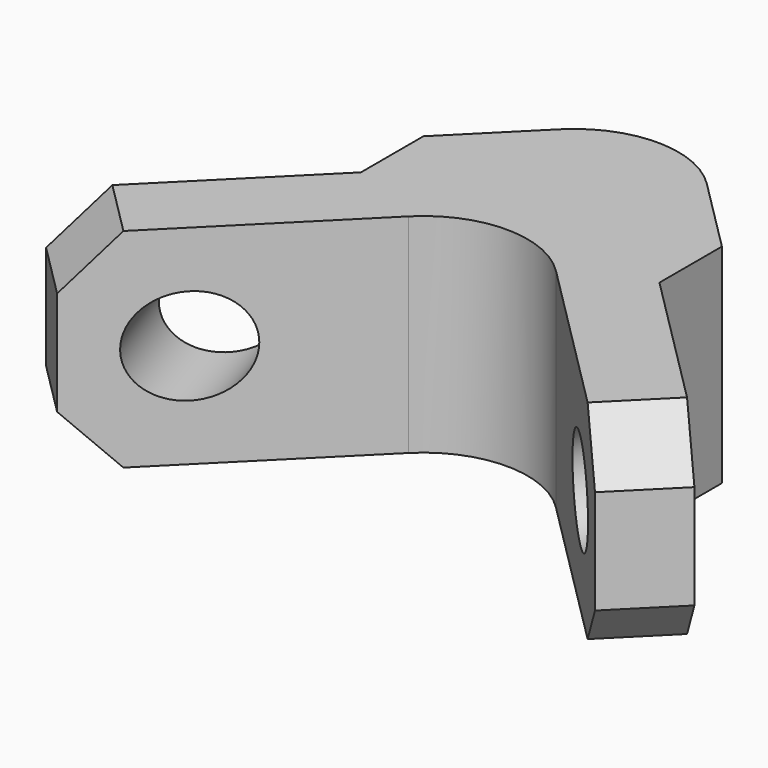
from build123d import *

# Parameters (mm, degrees)
F1_DEPTH = 8
F6_R     = 4
F7_SIZE  = 2


with BuildPart() as f1:
    # F0 (on Top) → F1 (new body)
    with BuildSketch(Plane.XY):
        Polygon((5.732233047, -5.732233047), (0, 0), (-5.732233047, -5.732233047), (-12.4497474683, -12.4497474683), (-10.3284271247, -14.5710678119), (0, -4.2426406871), (10.3284271247, -14.5710678119), (12.4497474683, -12.4497474683), align=None)
        Polygon((-5.732233047, -5.732233047), (0, 0), (5.732233047, -5.732233047), (5.732233047, -2.732233047), (0, 3), (-5.732233047, -2.732233047), align=None)
    extrude(amount=F1_DEPTH)

    # F3 (on face) → F4 section 0
    with BuildSketch(Plane(origin=(0, 0, 0), x_dir=(-0.7071067812, 0.7071067812, 0), z_dir=(0.7071067812, 0.7071067812, 0))):
        with BuildLine():
            add(Edge.make_bspline(
                [(-10.0066017178, 4), (-10.0066017178, 7.204293994), (-13.1566017178, 5.602146997), (-16.3066017178, 4), (-13.1566017178, 2.397853003), (-10.0066017178, 0.795706006), (-10.0066017178, 4)],
                knots=[0, 0, 0, 2.0943951024, 2.0943951024, 4.1887902048, 4.1887902048, 6.2831853072, 6.2831853072, 6.2831853072], degree=2, weights=[1, 0.5, 1, 0.5, 1, 0.5, 1]))
        make_face()
    # F2 (on face) → F4 section 1
    with BuildSketch(Plane(origin=(-2.1213203436, -2.1213203436, 0), x_dir=(0.7071067812, -0.7071067812, 0), z_dir=(-0.7071067812, -0.7071067812, 0))):
        with BuildLine():
            add(Edge.make_bspline(
                [(11.5066017178, 4), (11.5066017178, 0.795706006), (14.6566017178, 2.397853003), (17.8066017178, 4), (14.6566017178, 5.602146997), (11.5066017178, 7.204293994), (11.5066017178, 4)],
                knots=[0, 0, 0, 2.0943951024, 2.0943951024, 4.1887902048, 4.1887902048, 6.2831853072, 6.2831853072, 6.2831853072], degree=2, weights=[1, 0.5, 1, 0.5, 1, 0.5, 1]))
        make_face()
    f4 = loft(mode=Mode.SUBTRACT)

    # F5: F4 across plane
    add(f4.mirror(Plane.YZ), mode=Mode.SUBTRACT)

    # F6
    f6_edges = [f1.edges().sort_by_distance(p)[0] for p in [
        (0, -4.242641, 4),
        (0, 3, 4),
    ]]
    fillet(f6_edges, radius=F6_R)

    # F7
    f7_edges = [f1.edges().sort_by_distance(p)[0] for p in [
        (11.389087, -13.510408, 8),
        (11.389087, -13.510408, 0),
        (-11.389087, -13.510408, 8),
        (-11.389087, -13.510408, 0),
    ]]
    chamfer(f7_edges, length=F7_SIZE)


solid = f1.part
